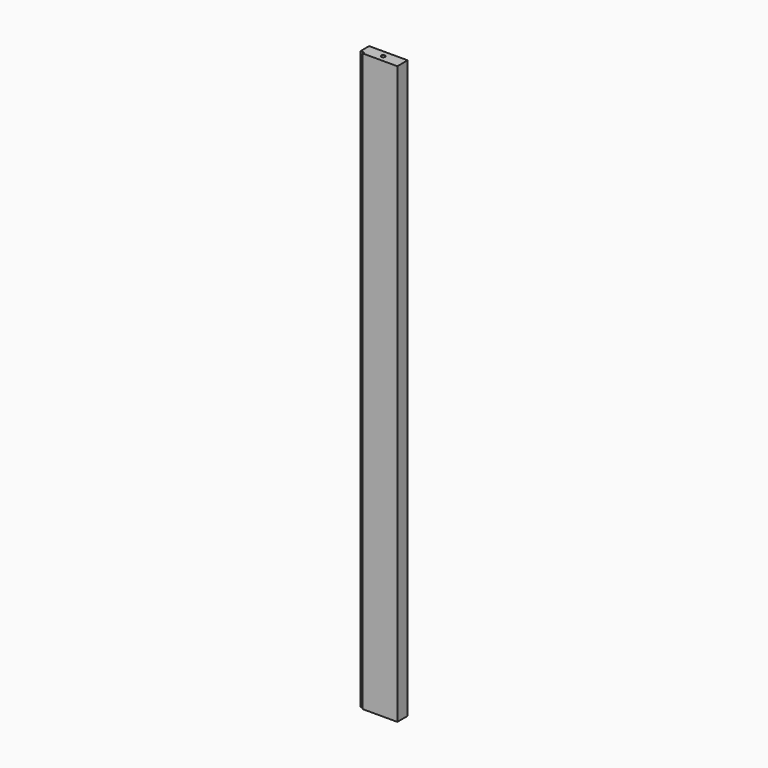
from build123d import *

# Parameters (mm, degrees)
F0_W     = 60
F0_H     = 20
F1_DEPTH = 900
F3_R     = 3
F4_DEPTH = 12
F5_R     = 3
F6_DEPTH = 12
F7_W     = 6
F7_H     = 3
F8_DEPTH = 900


with BuildPart() as f1:
    # F0 (on Top) → F1 (new body)
    with BuildSketch(Plane.XY):
        with Locations((30, 10)):
            Rectangle(F0_W, F0_H)
    extrude(amount=F1_DEPTH)

    # F3 (on face) → F4 (cut)
    with BuildSketch(Plane(origin=(0, 0, 0), x_dir=(1, 0, 0), z_dir=(0, 0, -1))):
        with Locations((30, -10)):
            Circle(F3_R)
    extrude(amount=-F4_DEPTH, mode=Mode.SUBTRACT)

    # F5 (on face) → F6 (cut)
    with BuildSketch(Plane.XY.offset(900)):
        with Locations((30, 10)):
            Circle(F5_R)
    extrude(amount=-F6_DEPTH, mode=Mode.SUBTRACT)

    # F7 (on face) → F8 (cut)
    with BuildSketch(Plane.XY.offset(900)):
        with Locations((3, 1.5)):
            Rectangle(F7_W, F7_H)
    extrude(amount=-F8_DEPTH, mode=Mode.SUBTRACT)


solid = f1.part
